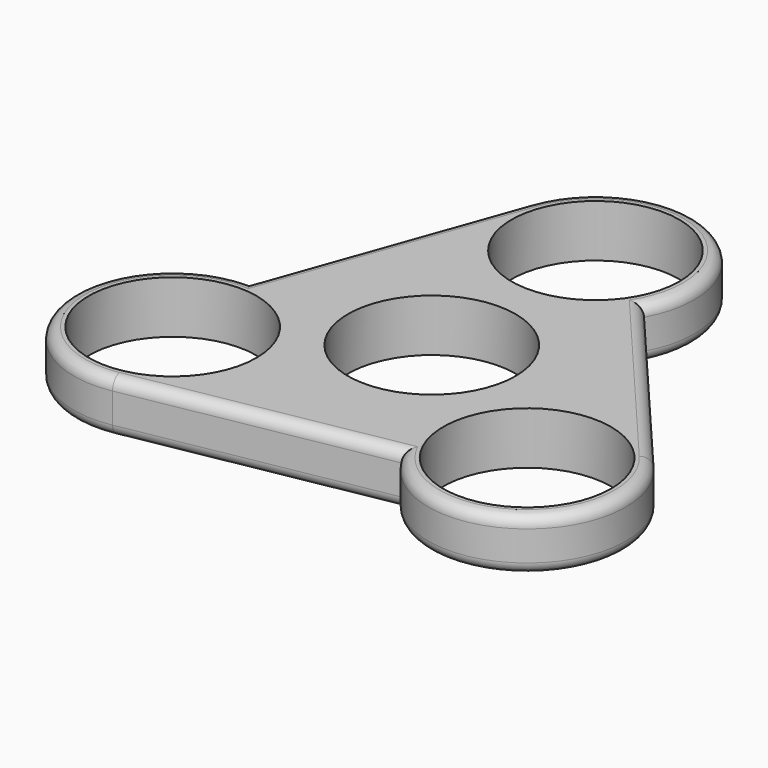
from build123d import *

# Parameters (mm, degrees)
F0_R     = 11.2
F1_DEPTH = 7
F2_R     = 1.5
F3_R     = 1.5


with BuildPart() as f1:
    # F0 (on Top) → F1 (new body)
    with BuildSketch(Plane.XY):
        with BuildLine():
            Line((33.730539, -5.120439), (11.567332, 20.972664))
            ThreePointArc((11.567332, 20.972664), (5.416765, 39.369046), (-12.430842, 31.771724))
            Line((-12.430842, 31.771724), (-23.946529, -0.468727))
            ThreePointArc((-23.946529, -0.468727), (-36.802979, -14.993466), (-21.299702, -26.651286))
            Line((-21.299702, -26.651286), (12.379191, -20.503938))
            ThreePointArc((12.379191, -20.503938), (31.386209, -24.375581), (33.730539, -5.120439))
        make_face()
        with Locations((-23.669915, -13.665829)):
            Circle(F0_R, mode=Mode.SUBTRACT)
        with Locations((23.669909, -13.665832)):
            Circle(F0_R, mode=Mode.SUBTRACT)
        Circle(F0_R, mode=Mode.SUBTRACT)
        with Locations((0, 27.33166)):
            Circle(F0_R, mode=Mode.SUBTRACT)
    extrude(amount=F1_DEPTH)

    # F2
    f2_edges = [f1.edges().sort_by_distance(p)[0] for p in [
        (22.648935, 7.926112, 7),
        (31.386209, -24.375581, 7),
        (-4.460256, -23.577612, 7),
        (-36.802979, -14.993466, 7),
        (-18.188685, 15.651498, 7),
        (5.416765, 39.369046, 7),
    ]]
    fillet(f2_edges, radius=F2_R)

    # F3
    f3_edges = [f1.edges().sort_by_distance(p)[0] for p in [
        (31.386209, -24.375581, 0),
        (22.648935, 7.926112, 0),
        (5.416765, 39.369046, 0),
        (-18.188685, 15.651498, 0),
        (-36.802979, -14.993466, 0),
        (-4.460256, -23.577612, 0),
    ]]
    fillet(f3_edges, radius=F3_R)


solid = f1.part
